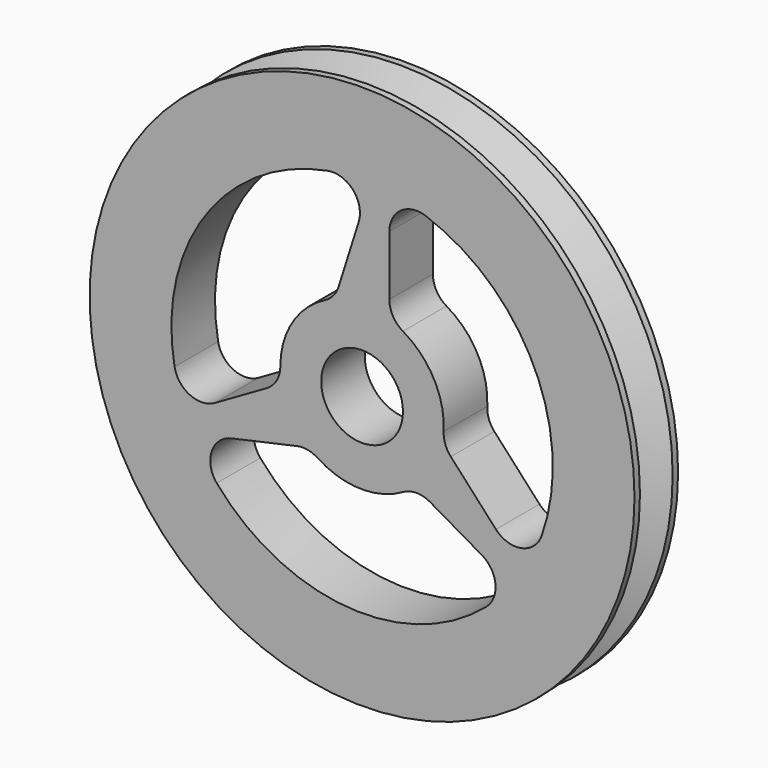
from build123d import *

# Parameters (mm, degrees)
F0_R     = 10
F0_R_2   = 1.5
F1_DEPTH = 2


with BuildPart() as f1:
    # F0 (on Front) → F1 (new body)
    with BuildSketch(Plane.XZ):
        Circle(F0_R)
        with BuildLine():
            ThreePointArc((-5.334675, -4.532245), (-5.52042, -3.56604), (-4.788605, -2.908394))
            Line((-4.788605, -2.908394), (-2.394098, -2.378609))
            ThreePointArc((-2.394098, -2.378609), (-1.999991, -2.370981), (-1.633554, -2.516247))
            ThreePointArc((-1.633554, -2.516247), (-0.078315, -2.998978), (1.5, -2.598076))
            ThreePointArc((1.5, -2.598076), (2, -2.464102), (2.5, -2.598076))
            Line((2.5, -2.598076), (4.398979, -3.694453))
            ThreePointArc((4.398979, -3.694453), (4.894761, -4.468726), (4.548809, -5.320558))
            ThreePointArc((4.548809, -5.320558), (-0.556557, -6.97784), (-5.334675, -4.532245))
        make_face(mode=Mode.SUBTRACT)
        with BuildLine():
            ThreePointArc((-6.882143, -1.279106), (-5.764708, 3.970912), (-1.257702, 6.886086))
            ThreePointArc((-1.257702, 6.886086), (-0.328071, 6.563844), (-0.12444, 5.60125))
            Line((-0.12444, 5.60125), (-0.862886, 3.262654))
            ThreePointArc((-0.862886, 3.262654), (-1.053334, 2.917534), (-1.362357, 2.672823))
            ThreePointArc((-1.362357, 2.672823), (-2.558033, 1.567311), (-3, 0))
            ThreePointArc((-3, 0), (-3.133975, -0.5), (-3.5, -0.866025))
            Line((-3.5, -0.866025), (-5.398979, -1.962402))
            ThreePointArc((-5.398979, -1.962402), (-6.317411, -2.004625), (-6.882143, -1.279106))
        make_face(mode=Mode.SUBTRACT)
        Circle(F0_R_2, mode=Mode.SUBTRACT)
        with BuildLine():
            Line((1, 3.464102), (1, 5.656854))
            ThreePointArc((1, 5.656854), (1.42265, 6.473351), (2.333333, 6.599663))
            ThreePointArc((2.333333, 6.599663), (6.321265, 3.006927), (6.592377, -2.353842))
            ThreePointArc((6.592377, -2.353842), (5.848491, -2.997804), (4.913045, -2.692856))
            Line((4.913045, -2.692856), (3.256985, -0.884046))
            ThreePointArc((3.256985, -0.884046), (3.053325, -0.546553), (2.995911, -0.156576))
            ThreePointArc((2.995911, -0.156576), (2.636348, 1.431666), (1.5, 2.598076))
            ThreePointArc((1.5, 2.598076), (1.133975, 2.964102), (1, 3.464102))
        make_face(mode=Mode.SUBTRACT)
    extrude(amount=F1_DEPTH)

    # F2 (on Right) → F3 (revolve, cut)
    with BuildSketch(Plane.YZ):
        Polygon((-0.25, 10), (-1, 10), (-1, 8.5), align=None)
        Polygon((-1, 8.5), (-1, 10), (-1.75, 10), align=None)
    revolve(axis=Axis((0, -1.937021, 0), (0, 1, 0)), mode=Mode.SUBTRACT)


solid = f1.part
